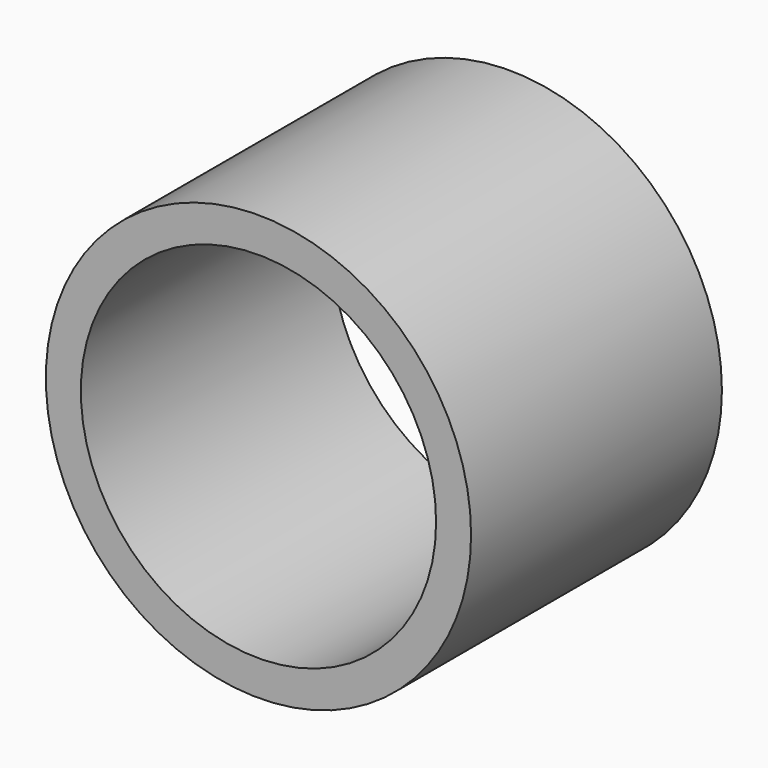
from build123d import *

# Parameters (mm, degrees)
F1_R     = 158
F2_DEPTH = 233
F0_R     = 132
F3_DEPTH = 233


with BuildPart() as f2:
    # F1 (on face) → F2 (new body)
    with BuildSketch(Plane.XZ):
        Circle(F1_R)
    extrude(amount=F2_DEPTH)

    # F0 (on Front) → F3 (cut)
    with BuildSketch(Plane.XZ):
        Circle(F0_R)
    extrude(amount=F3_DEPTH, mode=Mode.SUBTRACT)


solid = f2.part
